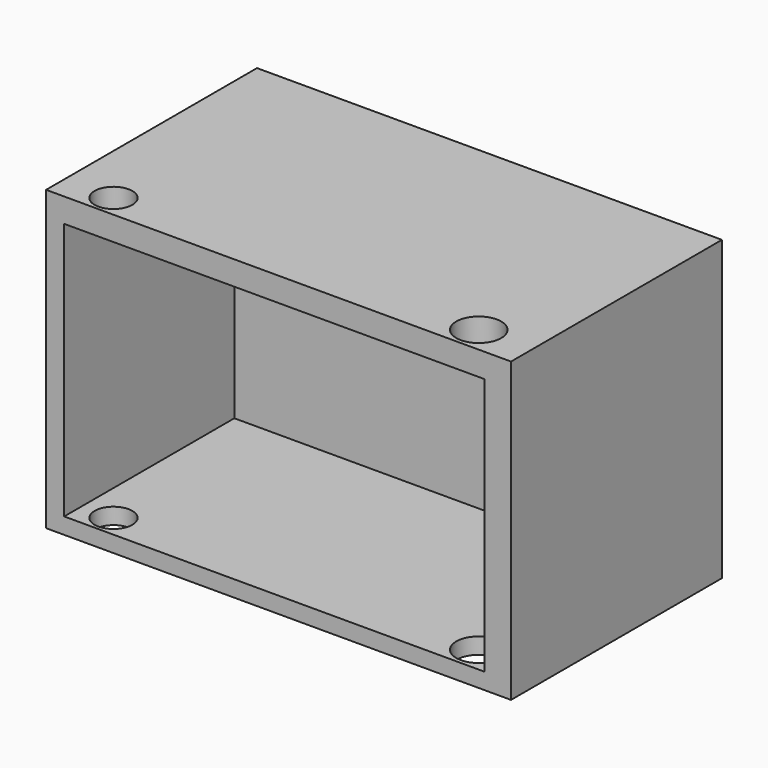
from build123d import *

# Parameters (mm, degrees)
F0_W     = 134.382621
F0_H     = 86.09888
F1_DEPTH = 76.2
F2_W     = 121.511206
F2_H     = 74.4575
F3_DEPTH = 61.468
F4_R     = 5.454336
F4_R_2   = 6.504008
F5_DEPTH = 177.8


with BuildPart() as f1:
    # F0 (on Front) → F1 (new body)
    with BuildSketch(Plane.XZ):
        with Locations((0.213645, -2.778597)):
            Rectangle(F0_W, F0_H)
    extrude(amount=-F1_DEPTH)

    # F2 (on face) → F3 (cut)
    with BuildSketch(Plane.XZ):
        with Locations((-0.984143, -3.911963)):
            Rectangle(F2_W, F2_H)
    extrude(amount=-F3_DEPTH, mode=Mode.SUBTRACT)

    # F4 (on face) → F5 (cut)
    with BuildSketch(Plane.XY.offset(40.270843)):
        with Locations((-52.633329, 6.413179)):
            Circle(F4_R)
        with Locations((52.010948, 7.588945)):
            Circle(F4_R_2)
    extrude(amount=-F5_DEPTH, mode=Mode.SUBTRACT)


solid = f1.part
